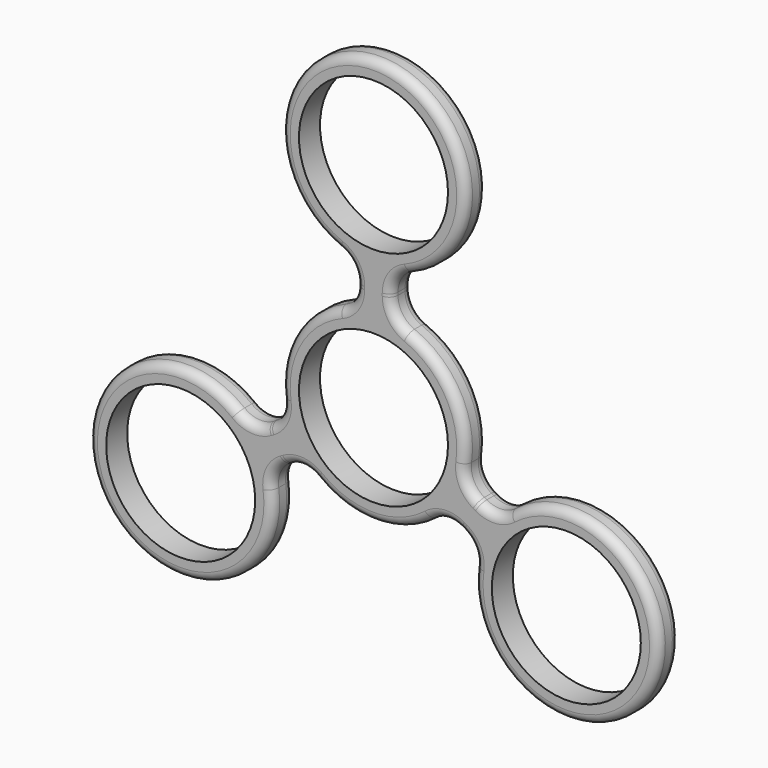
from build123d import *

# Parameters (mm, degrees)
F0_R     = 17
F1_DEPTH = 3
F2_R     = 2


with BuildPart() as f1:
    # F0 (on Front) → F1 (new body, symmetric)
    with BuildSketch(Plane.XZ):
        with BuildLine():
            ThreePointArc((-4, 25.079872), (-5.033445, 21.713371), (-7.777778, 19.506567))
            ThreePointArc((-7.777778, 19.506567), (-18.186533, 10.5), (-20.782072, -3.017531))
            ThreePointArc((-20.782072, -3.017531), (-21.321053, -6.497594), (-23.719807, -9.075835))
            Line((-23.719807, -9.075835), (-24.274284, -9.395962))
            ThreePointArc((-24.274284, -9.395962), (-27.706482, -10.184223), (-30.989796, -8.910963))
            ThreePointArc((-30.989796, -8.910963), (-62.180624, -35.9), (-23.212019, -22.382469))
            ThreePointArc((-23.212019, -22.382469), (-22.673037, -18.902406), (-20.274284, -16.324165))
            Line((-20.274284, -16.324165), (-19.719807, -16.004038))
            ThreePointArc((-19.719807, -16.004038), (-16.287608, -15.215777), (-13.004294, -16.489037))
            ThreePointArc((-13.004294, -16.489037), (0, -21), (13.004294, -16.489037))
            ThreePointArc((13.004294, -16.489037), (16.287608, -15.215777), (19.719807, -16.004038))
            Line((19.719807, -16.004038), (20.274284, -16.324165))
            ThreePointArc((20.274284, -16.324165), (22.673037, -18.902406), (23.212019, -22.382469))
            ThreePointArc((23.212019, -22.382469), (62.180624, -35.9), (30.989796, -8.910963))
            ThreePointArc((30.989796, -8.910963), (27.706482, -10.184223), (24.274284, -9.395962))
            Line((24.274284, -9.395962), (23.719807, -9.075835))
            ThreePointArc((23.719807, -9.075835), (21.321053, -6.497594), (20.782072, -3.017531))
            ThreePointArc((20.782072, -3.017531), (18.186533, 10.5), (7.777778, 19.506567))
            ThreePointArc((7.777778, 19.506567), (5.033445, 21.713371), (4, 25.079872))
            Line((4, 25.079872), (4, 25.720128))
            ThreePointArc((4, 25.720128), (5.033445, 29.086629), (7.777778, 31.293433))
            ThreePointArc((7.777778, 31.293433), (0, 71.8), (-7.777778, 31.293433))
            ThreePointArc((-7.777778, 31.293433), (-5.033445, 29.086629), (-4, 25.720128))
            Line((-4, 25.720128), (-4, 25.079872))
        make_face()
        with Locations((-43.994091, -25.4)):
            Circle(F0_R, mode=Mode.SUBTRACT)
        with Locations((43.994091, -25.4)):
            Circle(F0_R, mode=Mode.SUBTRACT)
        Circle(F0_R, mode=Mode.SUBTRACT)
        with Locations((0, 50.8)):
            Circle(F0_R, mode=Mode.SUBTRACT)
    extrude(amount=F1_DEPTH, both=True)

    # F2
    f2_edges = [f1.edges().sort_by_distance(p)[0] for p in [
        (0, 3, 71.8),
        (5.033445, 3, 29.086629),
        (7.777778, 0, 31.293433),
        (5.033445, -3, 29.086629),
        (4, 0, 25.720128),
        (4, 0, 25.079872),
        (7.777778, 0, 19.506567),
        (5.033445, 3, 21.713371),
        (5.033445, -3, 21.713371),
        (20.782072, 0, -3.017531),
        (21.321053, 3, -6.497594),
    ]]
    fillet(f2_edges, radius=F2_R)


solid = f1.part
